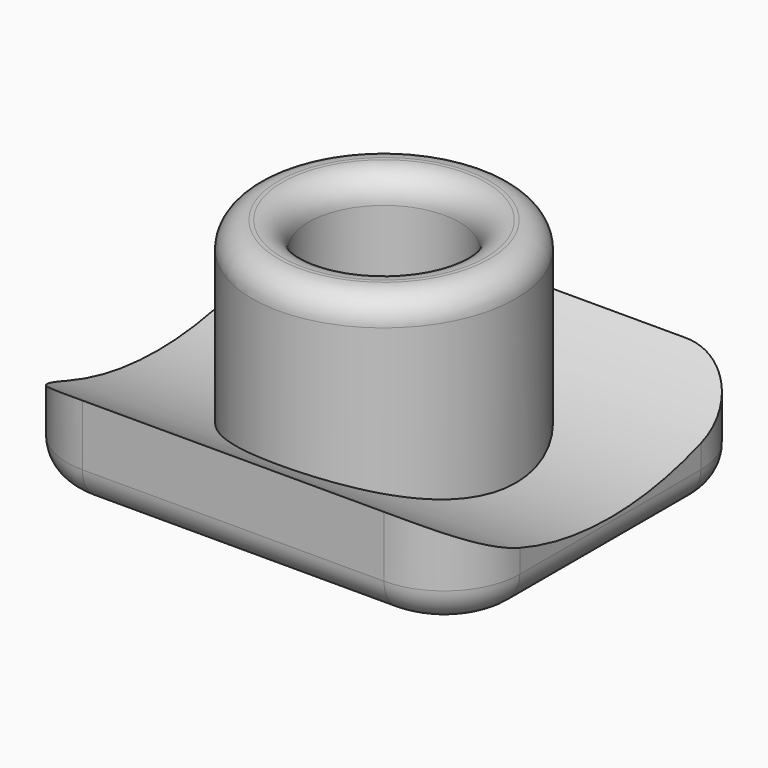
from build123d import *

# Parameters (mm, degrees)
F0_R     = 1.75
F1_DEPTH = 3
F2_R     = 4.5
F3_DEPTH = 12.5
F4_R     = 1.75
F4_R_2   = 1
F5_DEPTH = 3
F6_R     = 0.35
F7_R     = 0.45


with BuildPart() as f1:
    # F0 (on Top) → F1 (new body)
    with BuildSketch(Plane.XY):
        with BuildLine():
            Line((2, 2.5), (-2, 2.5))
            ThreePointArc((-2, 2.5), (-2.707107, 2.207107), (-3, 1.5))
            Line((-3, 1.5), (-3, -1.5))
            ThreePointArc((-3, -1.5), (-2.707107, -2.207107), (-2, -2.5))
            Line((-2, -2.5), (2, -2.5))
            ThreePointArc((2, -2.5), (2.707107, -2.207107), (3, -1.5))
            Line((3, -1.5), (3, 1.5))
            ThreePointArc((3, 1.5), (2.707107, 2.207107), (2, 2.5))
        make_face()
        Circle(F0_R, mode=Mode.SUBTRACT)
    extrude(amount=F1_DEPTH)

    # F2 (on Right) → F3 (cut, symmetric)
    with BuildSketch(Plane.YZ):
        with Locations((0, 5)):
            Circle(F2_R)
    extrude(amount=F3_DEPTH, both=True, mode=Mode.SUBTRACT)

    # F4 (on Top) → F5 (join)
    with BuildSketch(Plane.XY):
        Circle(F4_R)
        Circle(F4_R_2, mode=Mode.SUBTRACT)
    extrude(amount=F5_DEPTH)

    # F6
    f6_edges = [f1.edges().sort_by_distance(p)[0] for p in [
        (-1.75, 0, 3),
        (-1, 0, 3),
    ]]
    fillet(f6_edges, radius=F6_R)

    # F7
    f7_edges = [f1.edges().sort_by_distance(p)[0] for p in [
        (-1, 0, 0),
        (0, 2.5, 0),
        (-2.707107, 2.207107, 0),
        (-3, 0, 0),
        (-2.707107, -2.207107, 0),
        (0, -2.5, 0),
        (2.707107, -2.207107, 0),
        (3, 0, 0),
        (2.707107, 2.207107, 0),
    ]]
    fillet(f7_edges, radius=F7_R)


solid = f1.part
